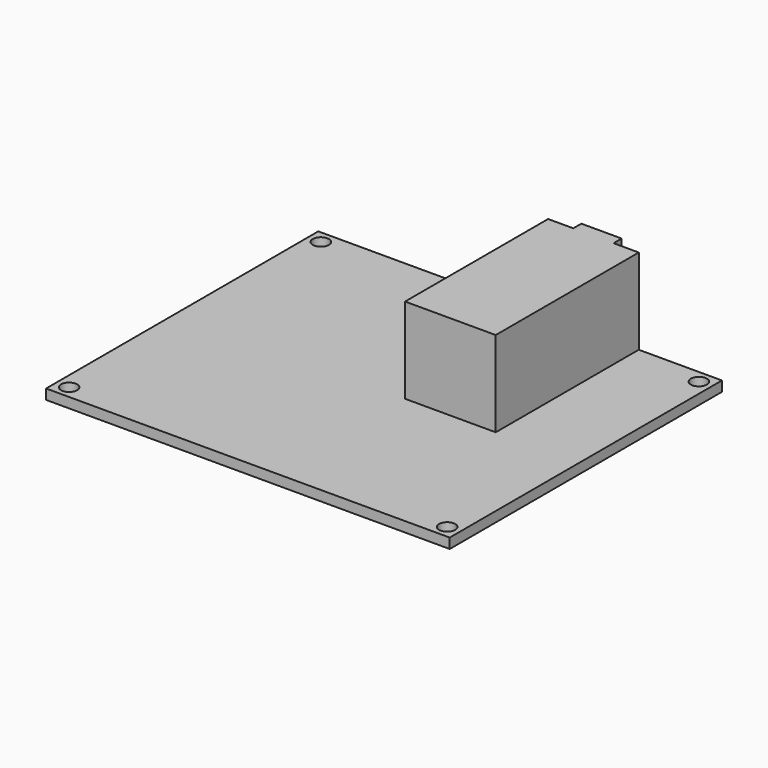
from build123d import *

# Parameters (mm, degrees)
F0_R     = 1.6
F1_DEPTH = 2
F3_W     = 18
F3_H     = 35.5
F4_DEPTH = 17
F6_W     = 8
F6_H     = 3
F7_DEPTH = 2


with BuildPart() as f1:
    # F0 (on Top) → F1 (new body)
    with BuildSketch(Plane.XY):
        with BuildLine():
            Line((-40.07, -33.78), (40.07, -33.78))
            Line((40.07, -33.78), (40.07, 33.78))
            Line((40.07, 33.78), (0.5, 33.78))
            ThreePointArc((0.5, 33.78), (0, 33.28), (-0.5, 33.78))
            Line((-0.5, 33.78), (-40.07, 33.78))
            Line((-40.07, 33.78), (-40.07, -33.78))
        make_face()
        with Locations((-37.53, -31.24)):
            Circle(F0_R, mode=Mode.SUBTRACT)
        with Locations((37.53, -31.24)):
            Circle(F0_R, mode=Mode.SUBTRACT)
        with Locations((-37.53, 31.24)):
            Circle(F0_R, mode=Mode.SUBTRACT)
        with Locations((37.53, 31.24)):
            Circle(F0_R, mode=Mode.SUBTRACT)
        with BuildLine():
            ThreePointArc((-0.5, 33.78), (0, 33.28), (0.5, 33.78))
            Line((0.5, 33.78), (-0.5, 33.78))
        make_face()
        with BuildLine():
            Line((-0.5, 33.78), (0.5, 33.78))
            ThreePointArc((0.5, 33.78), (0, 34.28), (-0.5, 33.78))
        make_face()
    extrude(amount=F1_DEPTH)

    # F3 (on offset) → F4 (join)
    with BuildSketch(Plane.XY.offset(2)):
        with Locations((14.56, 16.03)):
            Rectangle(F3_W, F3_H)
    extrude(amount=F4_DEPTH)

    # F6 (on offset) → F7 (join)
    with BuildSketch(Plane(origin=(0, 33.78, 0), x_dir=(-1, 0, 0), z_dir=(0, 1, 0))):
        with Locations((-14.56, 17.5)):
            Rectangle(F6_W, F6_H)
    extrude(amount=F7_DEPTH)


solid = f1.part
